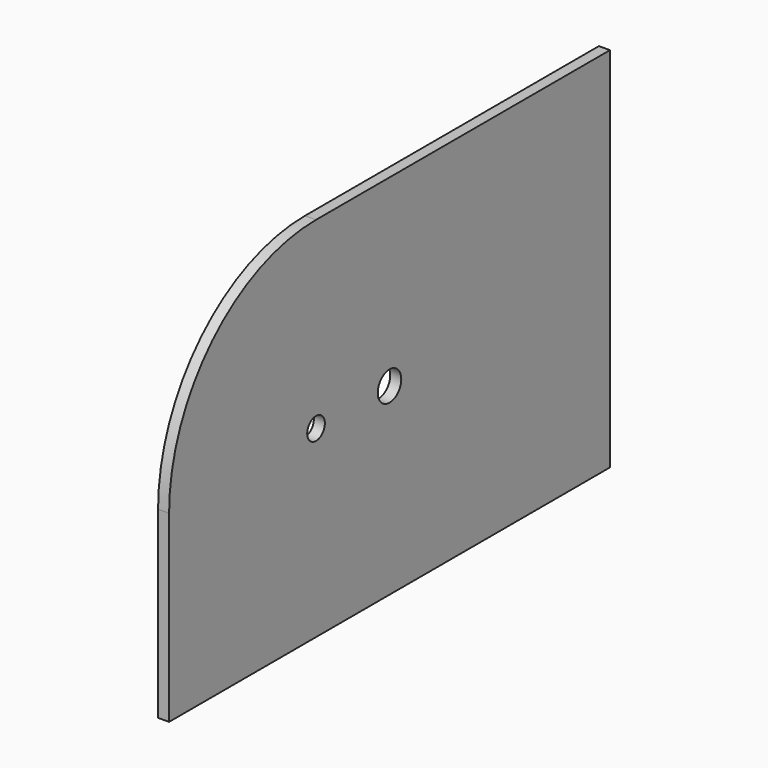
from build123d import *

# Parameters (mm, degrees)
F0_R     = 3
F0_R_2   = 4
F1_DEPTH = 3


with BuildPart() as f1:
    # F0 (on Right) → F1 (new body)
    with BuildSketch(Plane.YZ):
        with BuildLine():
            Line((100.859497, 113.830147), (0.859497, 113.830147))
            ThreePointArc((0.859497, 113.830147), (-34.495842, 99.185487), (-49.140503, 63.830147))
            Line((-49.140503, 63.830147), (-49.140503, 13.830147))
            Line((-49.140503, 13.830147), (100.859497, 13.830147))
            Line((100.859497, 13.830147), (100.859497, 113.830147))
        make_face()
        with Locations((0.859497, 63.830147)):
            Circle(F0_R, mode=Mode.SUBTRACT)
        with Locations((25.859497, 63.830147)):
            Circle(F0_R_2, mode=Mode.SUBTRACT)
    extrude(amount=F1_DEPTH)


solid = f1.part
